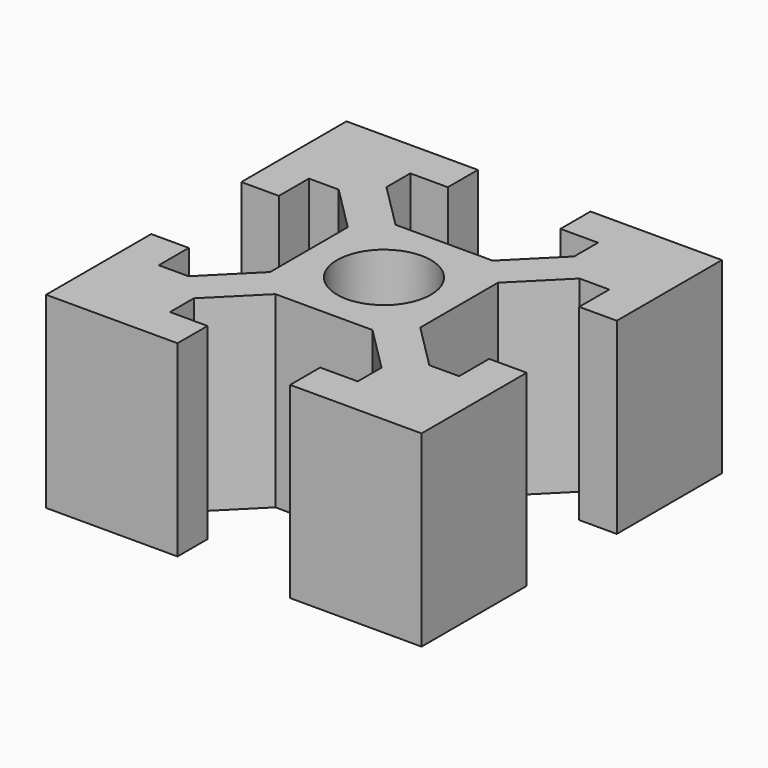
from build123d import *

# Parameters (mm, degrees)
SKETCH_R  = 2.5
PAD_DEPTH = 10


with BuildPart() as part:
    # Sketch → Pad (new body)
    with BuildSketch(Plane.XY):
        Polygon((3, -10), (3, -8), (5, -8), (5, -6.414214), (2.585786, -4), (-2.585786, -4), (-5, -6.414214), (-5, -8), (-3, -8), (-3, -10), (-10, -10), (-10, -3), (-8, -3), (-8, -5), (-6.414214, -5), (-4, -2.585786), (-4, 2.585786), (-6.414214, 5), (-8, 5), (-8, 3), (-10, 3), (-10, 10), (-3, 10), (-3, 8), (-5, 8), (-5, 6.414214), (-2.585786, 4), (2.585786, 4), (5, 6.414214), (5, 8), (3, 8), (3, 10), (10, 10), (10, 3), (8, 3), (8, 5), (6.414214, 5), (4, 2.585786), (4, -2.585786), (6.414214, -5), (8, -5), (8, -3), (10, -3), (10, -10), align=None)
        Circle(SKETCH_R, mode=Mode.SUBTRACT)
    extrude(amount=PAD_DEPTH)


solid = part.part
